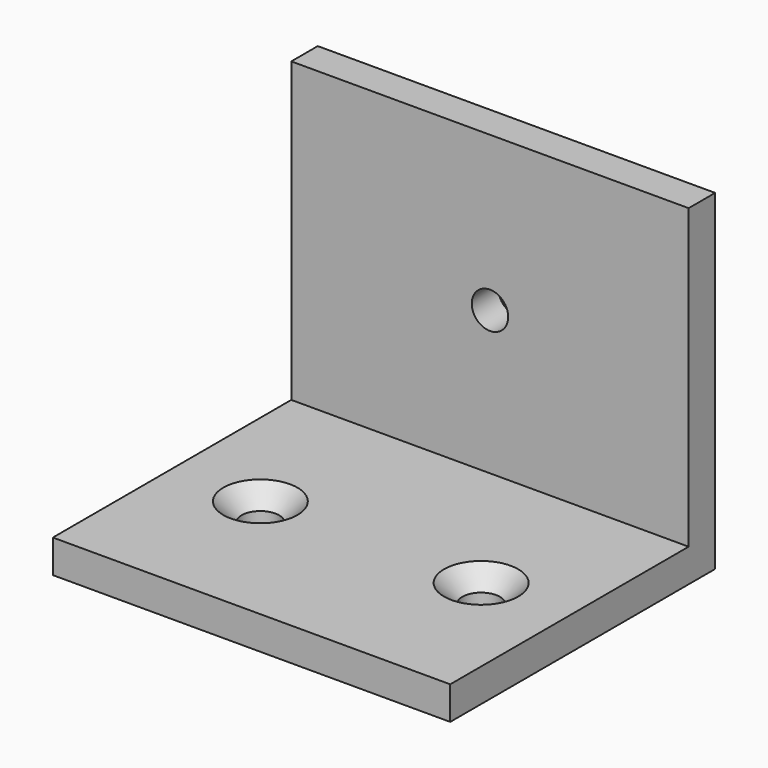
from build123d import *

# Parameters (mm, degrees)
F0_W           = 36
F0_H           = 3
F1_DEPTH       = 30
F0_H_2         = 27
F2_DEPTH       = 3
F4_D           = 3.4
F4_CSINK_D     = 6.72
F4_CSINK_ANGLE = 90
F5_D           = 3.3


with BuildPart() as f1:
    # F0 (on Front) → F1 (new body)
    with BuildSketch(Plane.XZ):
        with Locations((-9.6957933456, 0.646031009)):
            Rectangle(F0_W, F0_H)
    extrude(amount=F1_DEPTH)

    # F0 (on Front) → F2 (join)
    with BuildSketch(Plane.XZ):
        with Locations((-9.6957933456, 15.646031009)):
            Rectangle(F0_W, F0_H_2)
        with Locations((-9.6957933456, 0.646031009)):
            Rectangle(F0_W, F0_H)
    extrude(amount=F2_DEPTH)

    # F4 (through all)
    with Locations(Plane.XY.offset(2.146031009)):
        with Locations((-19.6957933456, -16.5), (0.3042066544, -16.5)):
            CounterSinkHole(F4_D / 2, F4_CSINK_D / 2, counter_sink_angle=F4_CSINK_ANGLE)

    # F5 (through all)
    with Locations(Plane(origin=(0, 0, 0), x_dir=(1, 0, 0), z_dir=(0, 1, 0))):
        with Locations((-9.6957933456, -15.146031009)):
            Hole(F5_D / 2)


solid = f1.part
